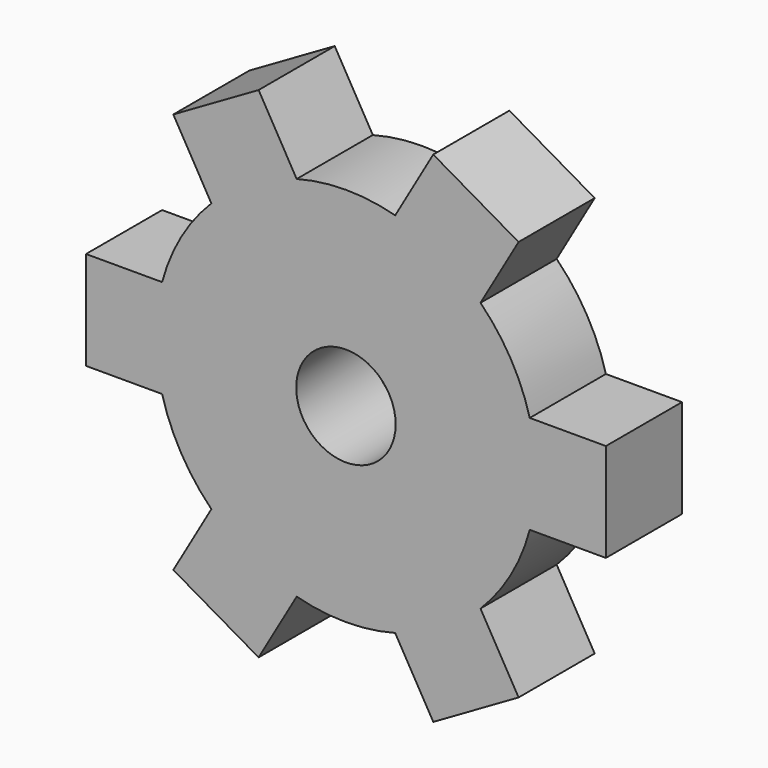
from build123d import *

# Parameters (mm, degrees)
F0_R     = 25.4
F1_DEPTH = 12.7
F3_DEPTH = 12.7
F5_COUNT = 6
F6_R     = 6.637445
F7_DEPTH = 12.701


with BuildPart() as f1:
    # F0 (on Front) → F1 (new body)
    with BuildSketch(Plane.XZ):
        Circle(F0_R)
    extrude(amount=F1_DEPTH)

    # F2 (on face) → F3 (join)
    with BuildSketch(Plane.XZ.offset(12.7)):
        Polygon((24.534516, 0), (0, 0), (24.534516, -6.574004), align=None)
        Polygon((24.534516, 6.574004), (0, 0), (24.534516, 0), align=None)
        with BuildLine():
            Line((24.534516, 6.574004), (24.534516, 0))
            Line((24.534516, 0), (25.4, 0))
            ThreePointArc((25.4, 0), (25.182699, 3.315365), (24.534516, 6.574004))
        make_face()
        with BuildLine():
            Line((25.4, 0), (24.534516, 0))
            Line((24.534516, 0), (24.534516, -6.574004))
            ThreePointArc((24.534516, -6.574004), (25.182699, -3.315365), (25.4, 0))
        make_face()
        with BuildLine():
            ThreePointArc((25.4, 0), (25.182699, -3.315365), (24.534516, -6.574004))
            Line((24.534516, -6.574004), (34.694516, -6.574004))
            Line((34.694516, -6.574004), (34.694516, 6.574004))
            Line((34.694516, 6.574004), (24.534516, 6.574004))
            ThreePointArc((24.534516, 6.574004), (25.182699, 3.315365), (25.4, 0))
        make_face()
    extrude(amount=-F3_DEPTH)

    # F5: F1 ×6 about axis
    f5_axis = Axis((0, 32.601867, 0), (0, 1, 0))


with BuildPart() as f1_1:
    add(f1.part)
    for i in range(1, F5_COUNT):
        add(f1.part.rotate(f5_axis, i * 360 / F5_COUNT))

    # F6 (on face) → F7 (cut, through all)
    with BuildSketch(Plane.XZ.offset(12.7)):
        Circle(F6_R)
    extrude(amount=-F7_DEPTH, mode=Mode.SUBTRACT)


solid = f1_1.part
